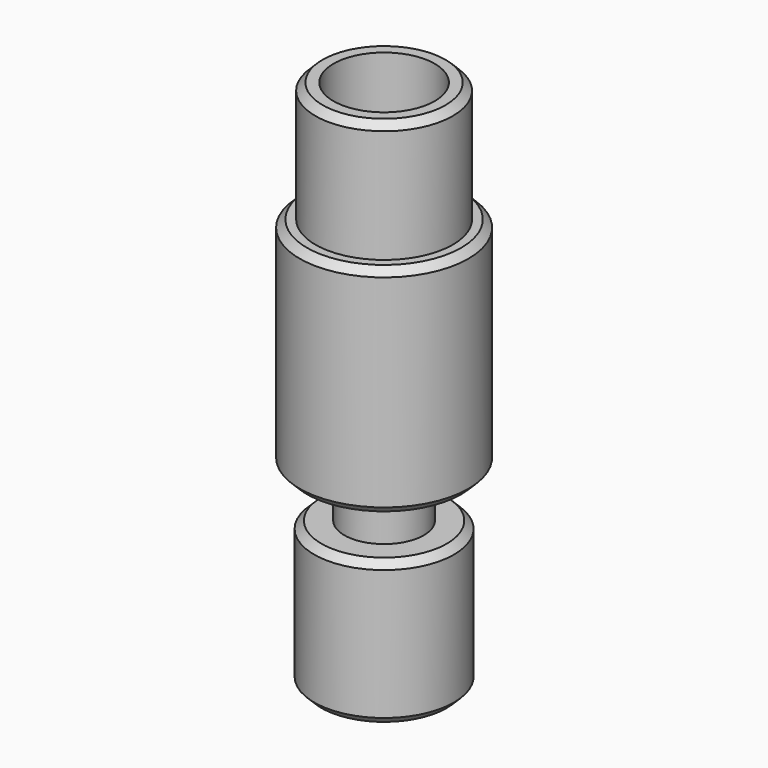
from build123d import *

# Parameters (mm, degrees)
F2_SIZE = 0.3


with BuildPart() as f1:
    # F0 (on Front) → F1 (revolve)
    with BuildSketch(Plane.XZ):
        Polygon((2.85, 22), (2.1, 22), (2.1, 9), (1, 8.339053), (1, 0), (2.9, 0), (2.9, 6), (1.65, 6), (1.65, 8), (3.5, 8), (3.5, 17), (2.85, 17), align=None)
    revolve(axis=Axis((0, 0, 11), (0, 0, 1)))

    # F2
    f2_edges = [f1.edges().sort_by_distance(p)[0] for p in [
        (-2.85, 0, 22),
        (-3.5, 0, 17),
        (-3.5, 0, 8),
        (-2.9, 0, 6),
        (-2.9, 0, 0),
    ]]
    chamfer(f2_edges, length=F2_SIZE)


solid = f1.part
